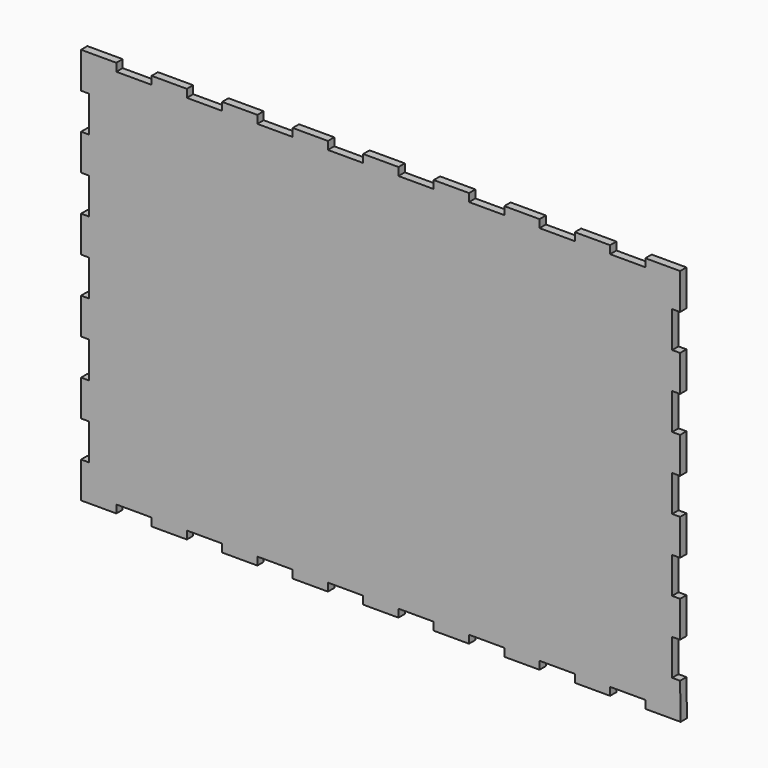
from build123d import *

# Parameters (mm, degrees)
F1_DEPTH = 3


with BuildPart() as f1:
    # F0 (on Front) → F1 (new body)
    with BuildSketch(Plane.XZ):
        Polygon((113.2355, 61.363636), (113.2355, 75), (100.097, 75), (100.097, 71.999997), (86.7637, 71.999997), (86.7637, 75), (73.4307, 75), (73.4307, 72), (60.0974, 72), (60.0974, 75), (46.7641, 75), (46.7641, 72), (33.4308, 72), (33.4308, 75), (20.0975, 75), (20.0975, 72), (6.7642, 72), (6.7642, 75), (-6.5691, 75), (-6.5691, 72), (-19.9024, 72), (-19.9024, 75), (-33.2357, 75), (-33.2357, 72), (-46.569, 72), (-46.569, 75), (-59.9023, 75), (-59.9023, 72), (-73.2356, 72), (-73.2356, 75), (-86.5689, 75), (-86.5689, 72), (-99.9022, 72), (-99.9022, 75), (-113.2355, 75), (-113.2355, 61.363636), (-110.2355, 61.363636), (-110.2355, 47.727273), (-113.2355, 47.727273), (-113.2355, 34.090909), (-110.2355, 34.090909), (-110.2355, 20.454545), (-113.2355, 20.454545), (-113.2355, 6.818182), (-110.2355, 6.818182), (-110.2355, -6.818182), (-113.2355, -6.818182), (-113.2355, -20.454545), (-110.2355, -20.454545), (-110.2355, -34.090909), (-113.2355, -34.090909), (-113.2355, -47.727273), (-110.2355, -47.727273), (-110.2355, -61.363636), (-113.2355, -61.363636), (-113.2355, -75), (-99.9022, -75), (-99.9022, -72), (-86.5689, -72), (-86.5689, -75), (-73.2356, -75), (-73.2356, -72), (-59.9023, -72), (-59.9023, -75), (-46.569, -75), (-46.569, -72), (-33.2357, -72), (-33.2357, -75), (-19.9024, -75), (-19.9024, -72), (-6.5691, -72), (-6.5691, -75), (6.7642, -75), (6.7642, -72), (20.0975, -72), (20.0975, -75), (33.4308, -75), (33.4308, -72), (46.7641, -72), (46.7641, -75), (60.0974, -75), (60.0974, -72), (73.4307, -72), (73.4307, -75), (86.7637, -75), (86.7637, -71.999997), (100.097, -71.999997), (100.097, -75), (113.2355, -75), (113.4308, -75), (113.2355, -61.363636), (110.2355, -61.363636), (110.2355, -47.727273), (113.2355, -47.727273), (113.2355, -34.090909), (110.2355, -34.090909), (110.2355, -20.454545), (113.2355, -20.454545), (113.2355, -6.818182), (110.2355, -6.818182), (110.2355, 6.818182), (113.2355, 6.818182), (113.2355, 20.454545), (110.2355, 20.454545), (110.2355, 34.090909), (113.2355, 34.090909), (113.2355, 47.727273), (110.2355, 47.727273), (110.2355, 61.363636), align=None)
    extrude(amount=F1_DEPTH)


solid = f1.part
